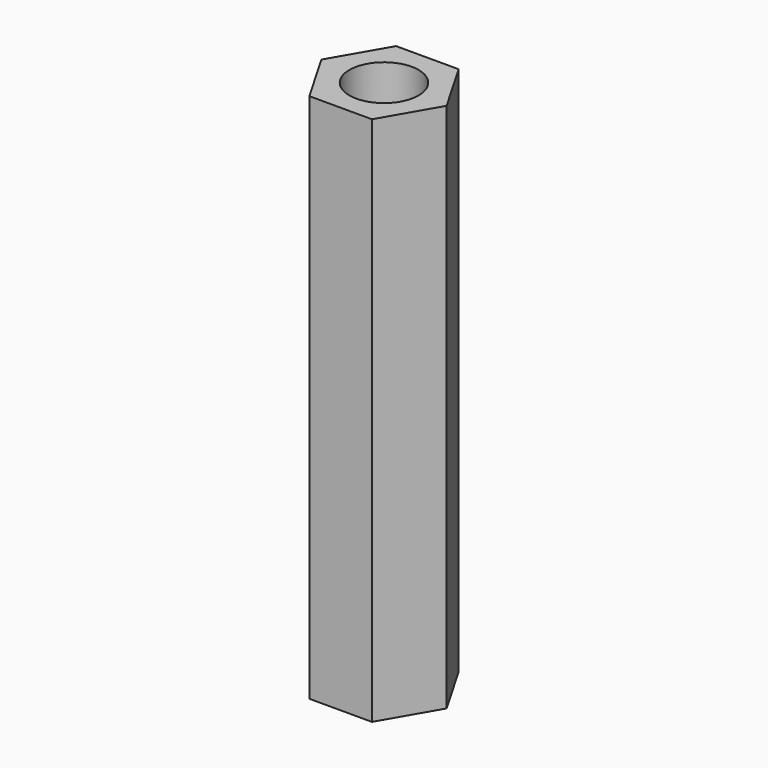
from build123d import *

# Parameters (mm, degrees)
F1_DEPTH = 23
F2_R     = 1.5
F3_DEPTH = 4
F4_R     = 1.5
F5_DEPTH = 4


with BuildPart() as f1:
    # F0 (on Top) → F1 (new body)
    with BuildSketch(Plane.XY):
        Polygon((-1.356773, -2.35), (1.356773, -2.35), (2.713546, 0), (1.356773, 2.35), (-1.356773, 2.35), (-2.713546, 0), align=None)
    extrude(amount=F1_DEPTH)

    # F2 (on face) → F3 (cut)
    with BuildSketch(Plane.XY.offset(23)):
        Circle(F2_R)
    extrude(amount=-F3_DEPTH, mode=Mode.SUBTRACT)

    # F4 (on face) → F5 (cut)
    with BuildSketch(Plane(origin=(0, 0, 0), x_dir=(1, 0, 0), z_dir=(0, 0, -1))):
        Circle(F4_R)
    extrude(amount=-F5_DEPTH, mode=Mode.SUBTRACT)


solid = f1.part
